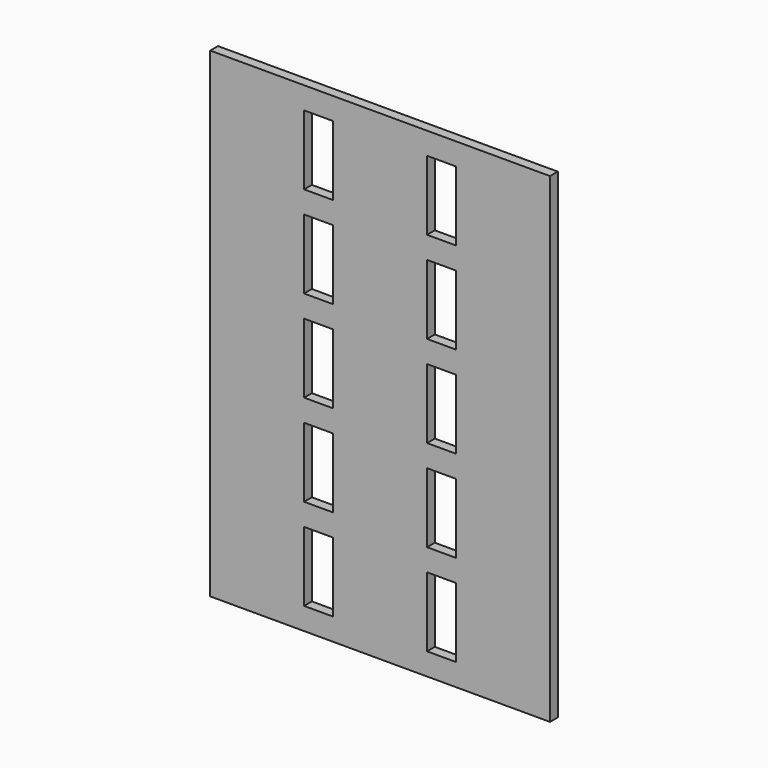
from build123d import *

# Parameters (mm, degrees)
F0_W     = 210
F0_H     = 297
F0_W_2   = 18
F0_H_2   = 43
F1_DEPTH = 3


with BuildPart() as f1:
    # F0 (on Front) → F1 (new body, symmetric)
    with BuildSketch(Plane.XZ):
        with Locations((-16.67, 0)):
            Rectangle(F0_W, F0_H)
        with Locations((-54.67, -113.3)):
            Rectangle(F0_W_2, F0_H_2, mode=Mode.SUBTRACT)
        with Locations((-54.67, -56.64)):
            Rectangle(F0_W_2, F0_H_2, mode=Mode.SUBTRACT)
        with Locations((21.33, -113.3)):
            Rectangle(F0_W_2, F0_H_2, mode=Mode.SUBTRACT)
        with Locations((21.33, -56.64)):
            Rectangle(F0_W_2, F0_H_2, mode=Mode.SUBTRACT)
        with Locations((-54.67, 0.02)):
            Rectangle(F0_W_2, F0_H_2, mode=Mode.SUBTRACT)
        with Locations((-54.67, 56.68)):
            Rectangle(F0_W_2, F0_H_2, mode=Mode.SUBTRACT)
        with Locations((-54.67, 113.34)):
            Rectangle(F0_W_2, F0_H_2, mode=Mode.SUBTRACT)
        with Locations((21.33, 0.02)):
            Rectangle(F0_W_2, F0_H_2, mode=Mode.SUBTRACT)
        with Locations((21.33, 56.68)):
            Rectangle(F0_W_2, F0_H_2, mode=Mode.SUBTRACT)
        with Locations((21.33, 113.34)):
            Rectangle(F0_W_2, F0_H_2, mode=Mode.SUBTRACT)
    extrude(amount=F1_DEPTH, both=True)


solid = f1.part
